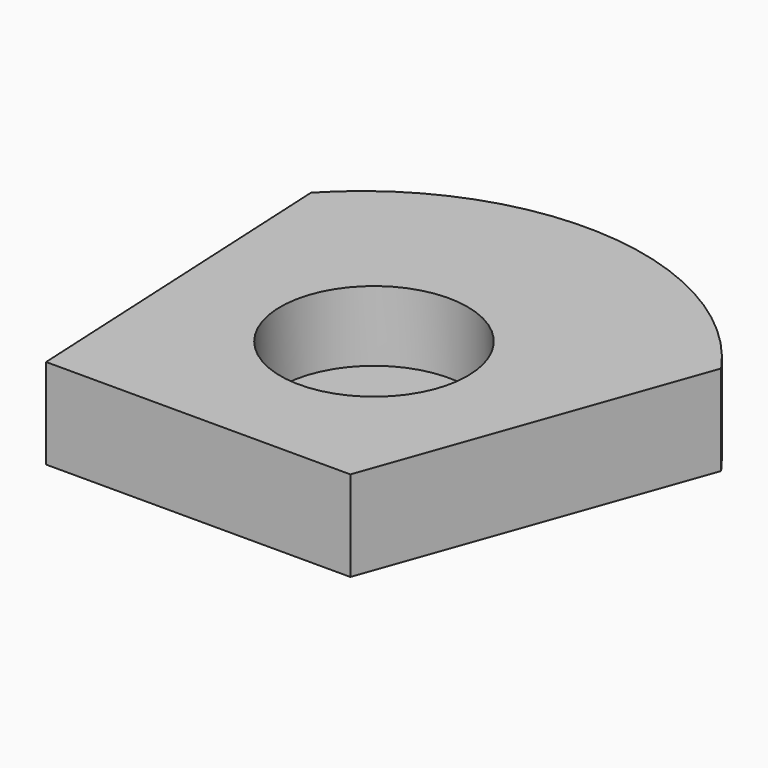
from build123d import *

# Parameters (mm, degrees)
F1_DEPTH = 19.304
F2_R     = 20
F3_DEPTH = 15


with BuildPart() as f1:
    # F0 (on Top) → F1 (new body)
    with BuildSketch(Plane.XY):
        with BuildLine():
            ThreePointArc((52.077811, 39.231941), (7.140875, 64.836505), (-41.060608, 46.087135))
            Line((-41.060608, 46.087135), (-37.354928, -29.32171))
            Line((-37.354928, -29.32171), (27.672678, -29.32171))
            Line((27.672678, -29.32171), (52.077811, 39.231941))
        make_face()
    extrude(amount=F1_DEPTH)

    # F2 (on face) → F3 (cut)
    with BuildSketch(Plane.XY.offset(19.304)):
        with Locations((0.727693, 10.67829)):
            Circle(F2_R)
    extrude(amount=-F3_DEPTH, mode=Mode.SUBTRACT)


solid = f1.part
